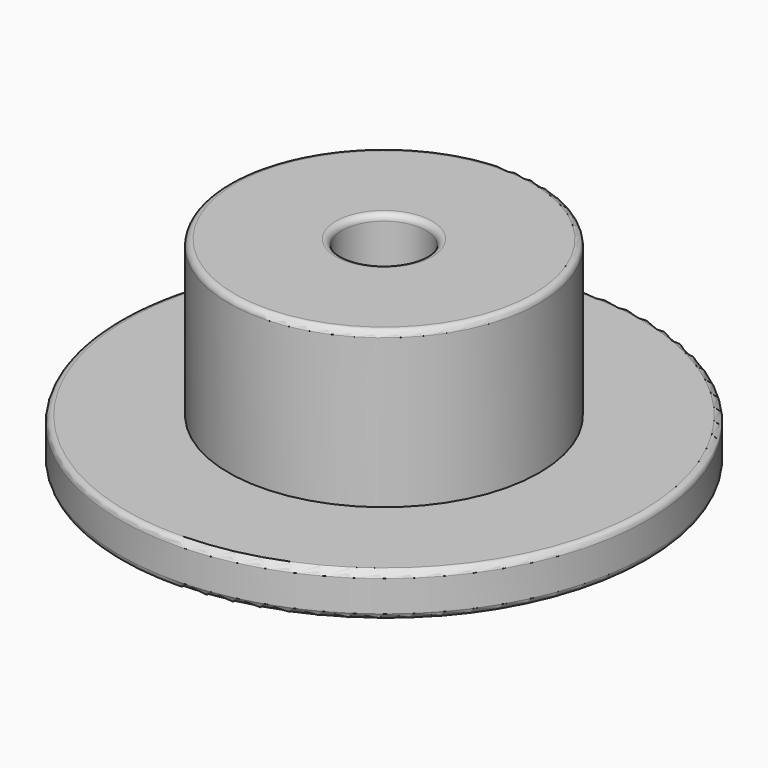
from build123d import *

# Parameters (mm, degrees)
F0_R     = 42.5
F1_DEPTH = 7
F2_R     = 25
F3_DEPTH = 25
F4_R     = 6.75
F5_DEPTH = 32.001
F6_R     = 1


with BuildPart() as f1:
    # F0 (on Top) → F1 (new body)
    with BuildSketch(Plane.XY):
        Circle(F0_R)
    extrude(amount=F1_DEPTH)

    # F2 (on face) → F3 (join)
    with BuildSketch(Plane.XY.offset(7)):
        Circle(F2_R)
    extrude(amount=F3_DEPTH)

    # F4 (on face) → F5 (cut, through all)
    with BuildSketch(Plane.XY.offset(32)):
        Circle(F4_R)
    extrude(amount=-F5_DEPTH, mode=Mode.SUBTRACT)

    # F6
    f6_edges = [f1.edges().sort_by_distance(p)[0] for p in [
        (-6.75, 0, 32),
        (-6.75, 0, 0),
        (-42.5, 0, 0),
        (-42.5, 0, 7),
        (-25, 0, 32),
    ]]
    fillet(f6_edges, radius=F6_R)


solid = f1.part
